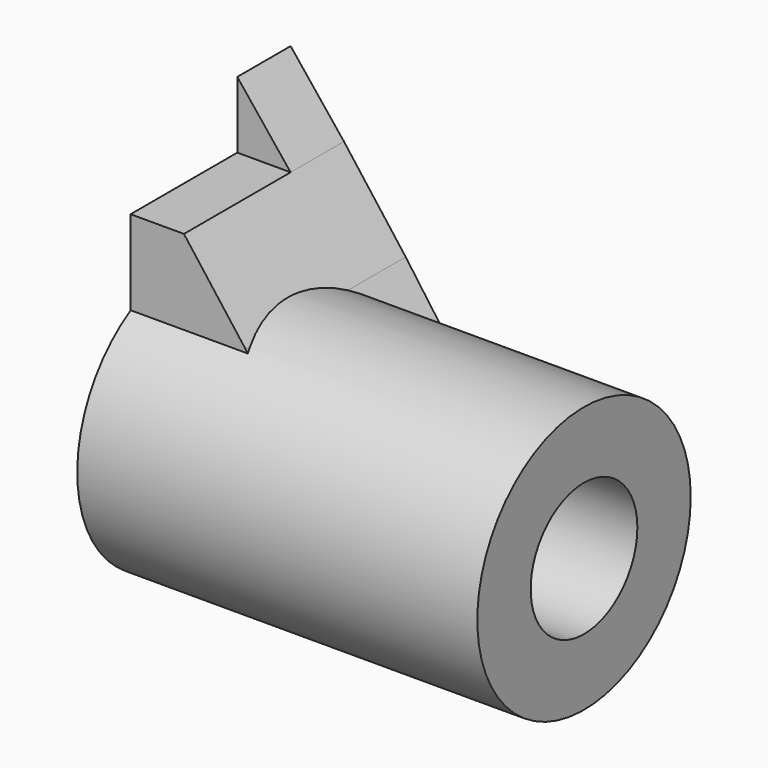
from build123d import *

# Parameters (mm, degrees)
F0_R          = 25.4
F0_R_2        = 12.7
F1_DEPTH      = 76.2
F3_START      = -12.7
F3_DEPTH      = 12.7
F4_DEPTH      = 12.7
F4_DEPTH_BACK = 25.4
F5_DEPTH      = 12.7
F5_DEPTH_BACK = 25.4
F6_DEPTH      = 76.201


with BuildPart() as f1:
    # F0 (on Right) → F1 (new body)
    with BuildSketch(Plane.YZ):
        Circle(F0_R)
        Circle(F0_R_2, mode=Mode.SUBTRACT)
    extrude(amount=F1_DEPTH)



with BuildPart() as f3:
    # F2 (on Front) → F3 (new body)
    with BuildSketch(Plane.XZ.offset(F3_START)):
        Polygon((0, 50.8), (0, 38.1), (10.16, 38.1), align=None)
    extrude(amount=-F3_DEPTH)


with BuildPart() as f1_1:
    add(f1.part)

    add(f3.part)  # F4 merges F3
    # F2 (on Front) → F4 (join, two sides)
    with BuildSketch(Plane.XZ) as f4_sk:
        Polygon((0, 38.1), (0, 22.5723106414), (21.9132695347, 22.5723106414), (10.16, 38.1), align=None)
    extrude(amount=F4_DEPTH)
    extrude(f4_sk.sketch, amount=-F4_DEPTH_BACK)

    # F2 (on Front) → F5 (join, two sides)
    with BuildSketch(Plane.XZ) as f5_sk:
        Polygon((0, 22.5723106414), (0, 0), (38.1, 0), (21.9132695347, 22.5723106414), align=None)
    extrude(amount=F5_DEPTH)
    extrude(f5_sk.sketch, amount=-F5_DEPTH_BACK)

    # F0 (on Right) → F6 (cut, through all)
    with BuildSketch(Plane.YZ):
        Circle(F0_R_2)
    extrude(amount=F6_DEPTH, mode=Mode.SUBTRACT)


solid = f1_1.part
